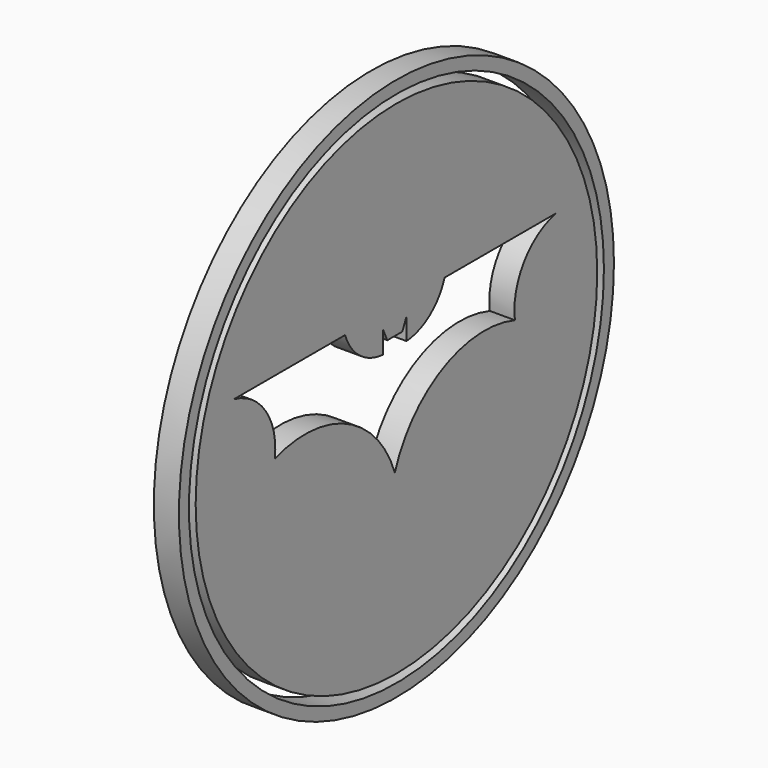
from build123d import *

# Parameters (mm, degrees)
F0_R     = 30
F1_DEPTH = 3
F0_R_2   = 32.5
F0_R_3   = 31


with BuildPart() as f1:
    # F0 (on Right) → F1 (new body)
    with BuildSketch(Plane.YZ):
        with Locations((24.3029328958, 8.75)):
            Circle(F0_R)
        with BuildLine():
            ThreePointArc((6.125, 8.75), (4.7725802821, 14.3220561974), (0, 17.5))
            Line((0, 17.5), (16.625, 17.5))
            ThreePointArc((16.625, 17.5), (18.8114537572, 14.4580148844), (22.3125, 13.125))
            Line((22.3125, 13.125), (22.3125, 15.75))
            Line((22.3125, 15.75), (22.9391290341, 14.3809293471))
            Line((22.9391290341, 14.3809293471), (24.0625, 14.3809293471))
            Line((24.0625, 14.3809293471), (25.1858709659, 14.3809293471))
            Line((25.1858709659, 14.3809293471), (25.8125, 15.75))
            Line((25.8125, 15.75), (25.8125, 13.125))
            ThreePointArc((25.8125, 13.125), (29.3135462428, 14.4580148844), (31.5, 17.5))
            Line((31.5, 17.5), (48.125, 17.5))
            ThreePointArc((48.125, 17.5), (43.3524197179, 14.3220561974), (42, 8.75))
            ThreePointArc((42, 8.75), (31.2347800241, 8.0577634507), (24.0625, 0))
            ThreePointArc((24.0625, 0), (16.8902199759, 8.0577634507), (6.125, 8.75))
        make_face(mode=Mode.SUBTRACT)
    extrude(amount=F1_DEPTH)


with BuildPart() as f1b:
    # F0 (on Right) → F1, piece 2 (new body)
    with BuildSketch(Plane.YZ):
        with Locations((24.3029328958, 8.75)):
            Circle(F0_R_2)
        with Locations((24.3029328958, 8.75)):
            Circle(F0_R_3, mode=Mode.SUBTRACT)
    extrude(amount=F1_DEPTH)


solid = Compound([f1.part, f1b.part])
